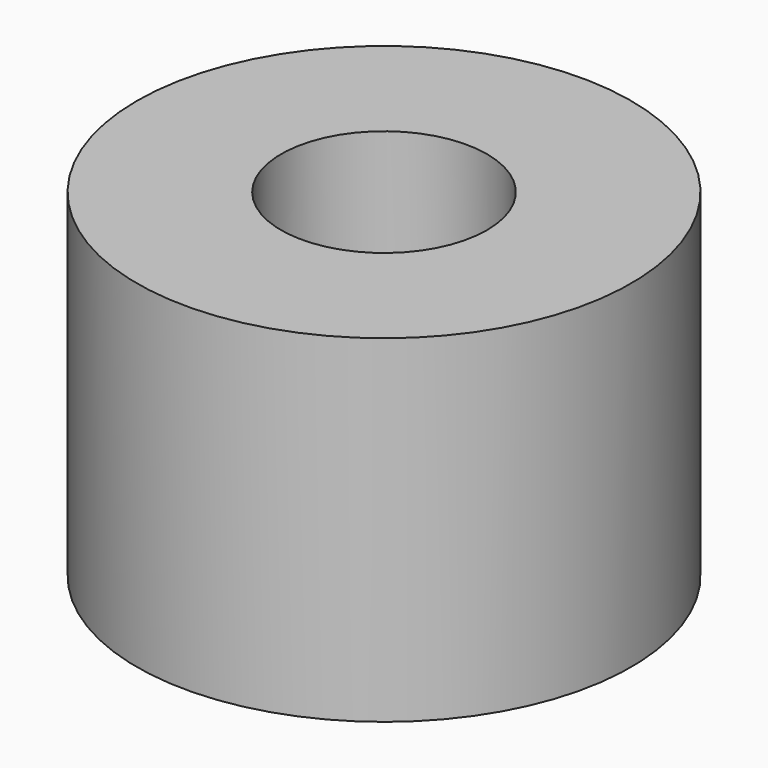
from build123d import *

# Parameters (mm, degrees)
CYLINDER084_R          = 1.25
CYLINDER084_DEPTH      = 5
CYLINDER085_R          = 3
CYLINDER085_DEPTH      = 4.1
CUT043_PLACEMENT_ANGLE = 90


with BuildPart() as b_w020:
    # Cylinder084 → Cylinder084 (new body)
    with BuildSketch(Plane(origin=(2, 6, 26), x_dir=(0, 0, 1), z_dir=(-1, 0, 0))):
        Circle(CYLINDER084_R)
    extrude(amount=CYLINDER084_DEPTH)


with BuildPart() as h_s:
    # Cylinder085 → Cylinder085 (new body)
    with BuildSketch(Plane(origin=(-1, 6, 26), x_dir=(0, 0, -1), z_dir=(1, 0, 0))):
        Circle(CYLINDER085_R)
    extrude(amount=CYLINDER085_DEPTH)

    # Cut043: cut B_W020
    add(b_w020.part, mode=Mode.SUBTRACT)


with BuildPart() as h_s_1:
    # Cut043 placement: moved
    add(h_s.part.moved(Location((14, 1.5, 3))).rotate(Axis((14, 1.5, 3), (0, 1, 0)), CUT043_PLACEMENT_ANGLE))


solid = h_s_1.part
